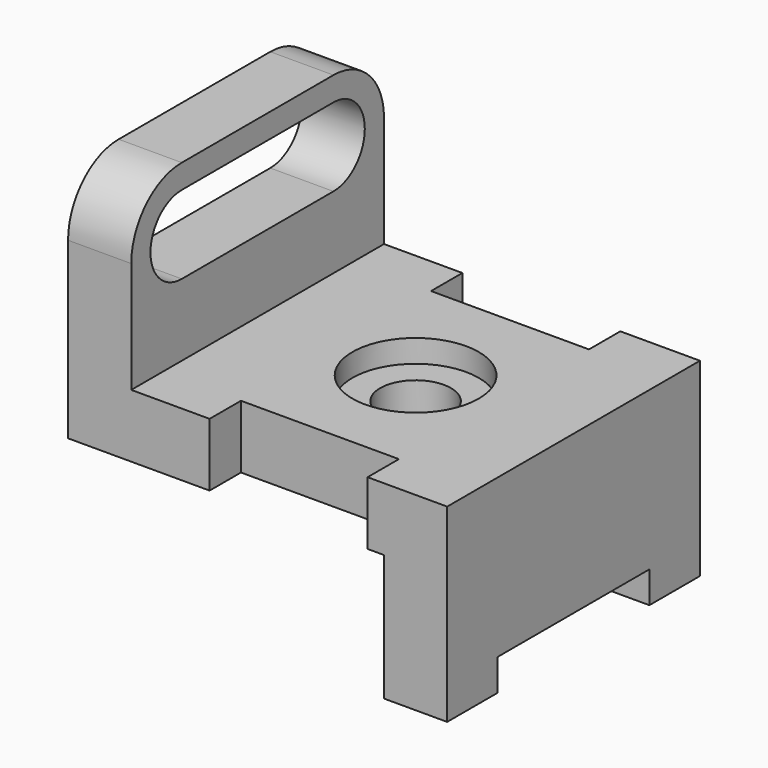
from build123d import *

# Parameters (mm, degrees)
F0_W      = 76.2
F0_H      = 76.2
F1_DEPTH  = 31.75
F2_W      = 63.5
F2_H      = 38.1
F3_DEPTH  = 63.5
F4_W      = 38.1
F4_H      = 6.35
F5_DEPTH  = 76.201
F6_R      = 12.7
F7_DEPTH  = 4.572
F8_R      = 7.112
F9_DEPTH  = 33.529
F10_W     = 31.75
F10_H     = 7.874
F11_DEPTH = 38.101
F12_W     = 63.5
F12_H     = 25.4
F13_DEPTH = 63.501


with BuildPart() as f1:
    # F0 (on Front) → F1 (new body, symmetric)
    with BuildSketch(Plane.XZ):
        with Locations((38.1, 38.1)):
            Rectangle(F0_W, F0_H)
    extrude(amount=F1_DEPTH, both=True)

    # F2 (on face) → F3 (cut)
    with BuildSketch(Plane.YZ.offset(76.2)):
        with Locations((0, 57.15)):
            Rectangle(F2_W, F2_H)
    extrude(amount=-F3_DEPTH, mode=Mode.SUBTRACT)

    # F4 (on face) → F5 (cut, through all)
    with BuildSketch(Plane.YZ.offset(76.2)):
        with Locations((0, 3.175)):
            Rectangle(F4_W, F4_H)
        with BuildLine():
            ThreePointArc((19.05, 52.578), (26.924, 60.452), (19.05, 68.326))
            Line((19.05, 68.326), (-19.05, 68.326))
            ThreePointArc((-19.05, 68.326), (-26.924, 60.452), (-19.05, 52.578))
            Line((-19.05, 52.578), (19.05, 52.578))
        make_face()
        with BuildLine():
            ThreePointArc((-31.75, 60.452), (-28.030256, 69.432256), (-19.05, 73.152))
            Line((-19.05, 73.152), (19.05, 73.152))
            ThreePointArc((19.05, 73.152), (28.030256, 69.432256), (31.75, 60.452))
            Line((31.75, 60.452), (31.75, 76.2))
            Line((31.75, 76.2), (-31.75, 76.2))
            Line((-31.75, 76.2), (-31.75, 60.452))
        make_face()
    extrude(amount=-F5_DEPTH, mode=Mode.SUBTRACT)

    # F6 (on face) → F7 (cut)
    with BuildSketch(Plane.XY.offset(38.1)):
        with Locations((44.45, 0)):
            Circle(F6_R)
    extrude(amount=-F7_DEPTH, mode=Mode.SUBTRACT)

    # F8 (on face) → F9 (cut, through all)
    with BuildSketch(Plane.XY.offset(33.528)):
        with Locations((44.45, 0)):
            Circle(F8_R)
    extrude(amount=-F9_DEPTH, mode=Mode.SUBTRACT)

    # F10 (on face) → F11 (cut, through all)
    with BuildSketch(Plane.XY.offset(38.1)):
        with Locations((44.323, -27.813)):
            Rectangle(F10_W, F10_H)
        with Locations((44.323, 27.813)):
            Rectangle(F10_W, F10_H)
    extrude(amount=-F11_DEPTH, mode=Mode.SUBTRACT)

    # F12 (on face) → F13 (cut, through all)
    with BuildSketch(Plane.XZ.offset(31.75)):
        with Locations((31.75, 12.7)):
            Rectangle(F12_W, F12_H)
    extrude(amount=-F13_DEPTH, mode=Mode.SUBTRACT)


solid = f1.part
